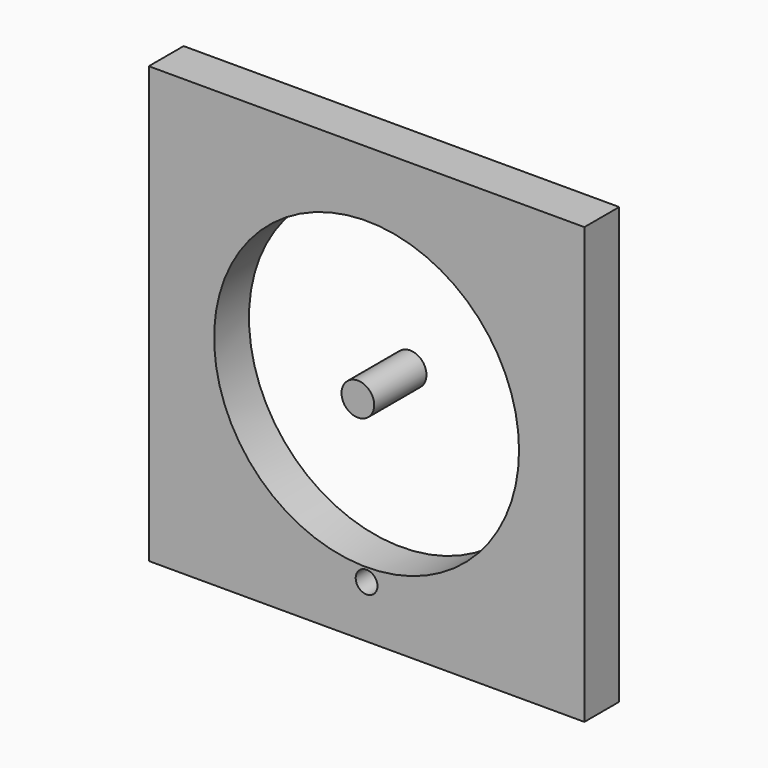
from build123d import *

# Parameters (mm, degrees)
F0_W          = 400
F0_H          = 40
F1_DEPTH      = 200
F1_DEPTH_BACK = 200
F2_R          = 140
F3_DEPTH      = 40
F4_R          = 15
F5_DEPTH      = 30
F5_DEPTH_BACK = 30
F6_R          = 10
F7_DEPTH      = 40


with BuildPart() as f1:
    # F0 (on Top) → F1 (new body, two sides)
    with BuildSketch(Plane.XY) as f1_sk:
        Rectangle(F0_W, F0_H)
    extrude(amount=F1_DEPTH)
    extrude(f1_sk.sketch, amount=-F1_DEPTH_BACK)

    # F2 (on face) → F3 (cut)
    with BuildSketch(Plane.XZ.offset(20)):
        Circle(F2_R)
    extrude(amount=-F3_DEPTH, mode=Mode.SUBTRACT)

    # F6 (on face) → F7 (cut)
    with BuildSketch(Plane.XZ.offset(20)):
        with Locations((0, -152)):
            Circle(F6_R)
    extrude(amount=-F7_DEPTH, mode=Mode.SUBTRACT)


with BuildPart() as f5:
    # F4 (on Front) → F5 (new body, two sides)
    with BuildSketch(Plane.XZ) as f5_sk:
        Circle(F4_R)
    extrude(amount=F5_DEPTH)
    extrude(f5_sk.sketch, amount=-F5_DEPTH_BACK)


solid = Compound([f1.part, f5.part])
